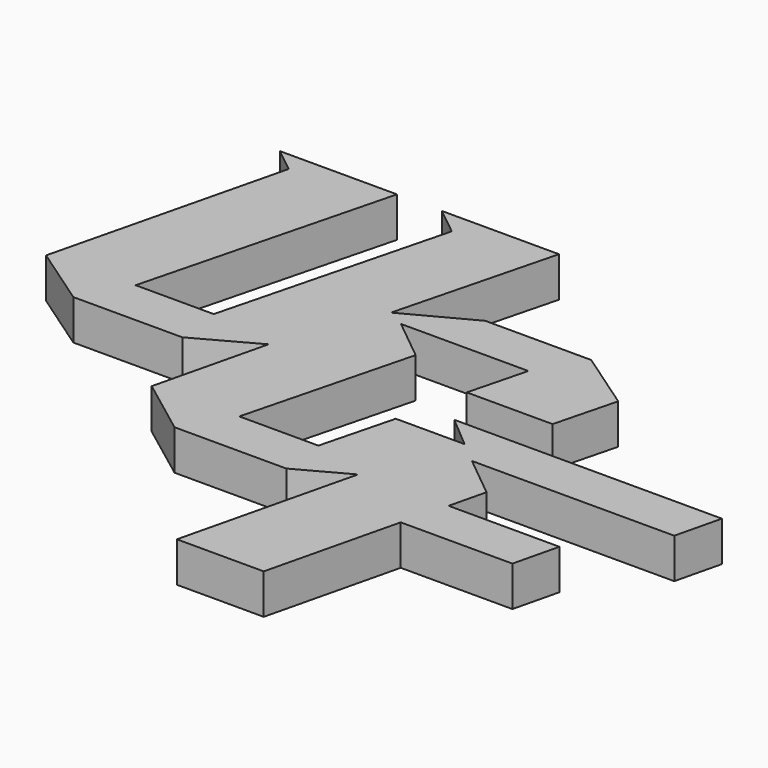
from build123d import *

# Parameters (mm, degrees)
F1_DEPTH = 2.54


with BuildPart() as f1:
    # F0 (on Top) → F1 (new body)
    with BuildSketch(Plane.XY):
        Polygon((-5.995896, -7.13228), (-6.844743, -6.480798), (-3.836085, 6.000167), (1.180427, 8.666), (7.587111, 8.666), (8.813967, 7.821221), (1.488084, 7.821221), (-1.447063, 6.26145), (6.127988, 6.26145), (5.180136, 2.561404), (10.624545, 2.561404), (11.634617, 6.504334), (7.82159, 9.129876), (1.097838, 9.129876), (-3.096944, 6.90072), (-0.511983, 16.991402), (-7.943114, 16.991402), (-6.19218, 15.589118), (-9.854238, 1.293863), (-14.809527, 1.293863), (-10.788241, 16.991402), (-18.210795, 16.991402), (-16.678699, 15.764381), (-20.272369, 1.022546), (-16.425734, -1.626137), (-9.515389, -1.626137), (-5.70774, 0.457038), (-7.423887, -6.662141), (-3.788898, -9.398828), (3.305492, -9.398828), (6.472039, -7.676311), (3.811726, -18.712221), (9.321281, -18.712221), (11.333264, -10.365812), (18.418461, -10.365812), (19.109229, -7.500265), (12.078154, -7.500265), (12.634992, -5.190304), (9.977397, -3.021413), (22.809136, -3.021413), (23.509286, -0.116946), (6.530533, -0.116946), (8.472281, -1.761667), (8.616393, -1.173794), (7.928506, -0.700135), (22.899743, -0.700135), (22.701854, -1.52105), (9.492916, -1.52105), (5.462863, -18.23912), (4.432984, -18.23912), (8.453434, -1.83855), (4.198023, -1.83855), (3.007288, -6.486717), (-2.007372, -6.486717), (0.705341, 4.102662), (-1.752948, 6.098899), (-2.961167, 5.456838), align=None)
        Polygon((-1.893178, -7.869553), (-1.667288, -6.998886), (3.390135, -6.998886), (4.516308, -2.327129), (7.205165, -2.327129), (6.993239, -3.206271), (5.234903, -3.206271), (4.110773, -7.869553), align=None, mode=Mode.SUBTRACT)
        Polygon((12.062723, -8.862222), (12.301775, -7.946932), (18.437441, -7.946932), (18.216802, -8.862222), align=None, mode=Mode.SUBTRACT)
        Polygon((-18.89434, 0.720949), (-19.655613, 1.344398), (-16.097893, 15.938756), (-16.728074, 16.443454), (-11.468086, 16.443454), (-11.679474, 15.576306), (-15.272995, 15.576306), align=None, mode=Mode.SUBTRACT)
        Polygon((-14.482171, 0.81359), (-9.49441, 0.81359), (-5.643328, 15.846721), (-6.503054, 16.535256), (-1.127594, 16.535256), (-1.376828, 15.562343), (-4.912582, 15.562343), (-8.926276, -0.105562), (-14.717633, -0.105562), align=None, mode=Mode.SUBTRACT)
        Polygon((5.828837, 2.995504), (6.583156, 5.94395), (7.486715, 5.94395), (6.775963, 2.995504), align=None, mode=Mode.SUBTRACT)
        Polygon((-3.836085, 6.000167), (-6.844743, -6.480798), (-5.995896, -7.13228), (-2.961167, 5.456838), (-1.752948, 6.098899), (-1.953123, 6.26145), (-1.447063, 6.26145), (1.488084, 7.821221), (8.813967, 7.821221), (7.587111, 8.666), (1.180427, 8.666), align=None)
        Polygon((-5.643328, 15.846721), (-9.49441, 0.81359), (-14.482171, 0.81359), (-14.717633, -0.105562), (-8.926276, -0.105562), (-4.912582, 15.562343), (-1.376828, 15.562343), (-1.127594, 16.535256), (-6.503054, 16.535256), align=None)
        Polygon((-16.097893, 15.938756), (-19.655613, 1.344398), (-18.89434, 0.720949), (-15.272995, 15.576306), (-11.679474, 15.576306), (-11.468086, 16.443454), (-16.728074, 16.443454), align=None)
        Polygon((7.486715, 5.94395), (6.583156, 5.94395), (5.828837, 2.995504), (6.775963, 2.995504), align=None)
        Polygon((8.563047, -1.83855), (8.453434, -1.83855), (4.432984, -18.23912), (5.462863, -18.23912), (9.492916, -1.52105), (22.701854, -1.52105), (22.899743, -0.700135), (7.928506, -0.700135), (8.616393, -1.173794), (8.472281, -1.761667), align=None)
        Polygon((3.390135, -6.998886), (-1.667288, -6.998886), (-1.893178, -7.869553), (4.110773, -7.869553), (5.234903, -3.206271), (6.993239, -3.206271), (7.205165, -2.327129), (4.516308, -2.327129), align=None)
        Polygon((18.437441, -7.946932), (12.301775, -7.946932), (12.062723, -8.862222), (18.216802, -8.862222), align=None)
    extrude(amount=F1_DEPTH)


solid = f1.part
